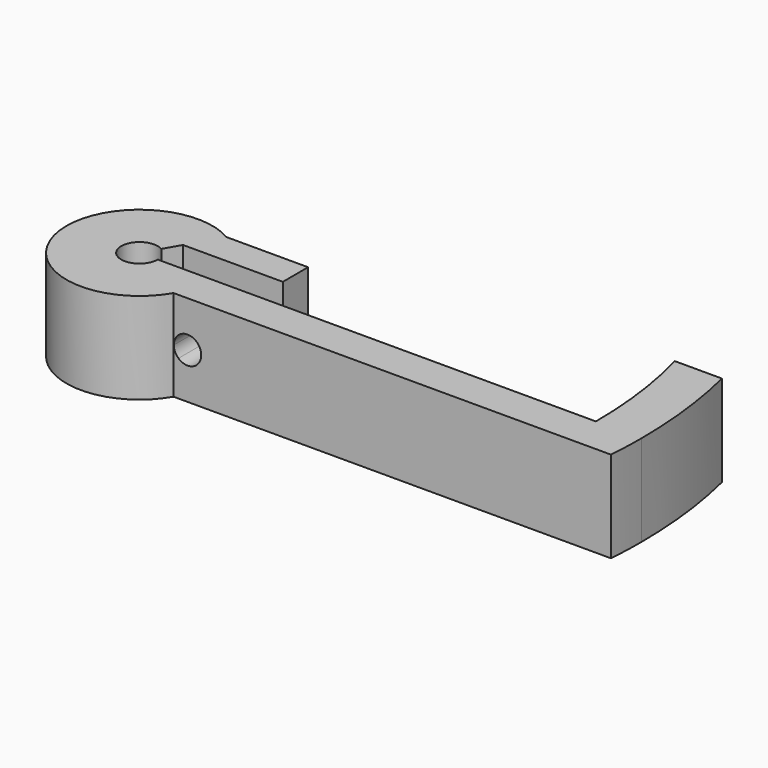
from build123d import *

# Parameters (mm, degrees)
F1_DEPTH = 10
F3_DEPTH = 25


with BuildPart() as f1:
    # F0 (on Top) → F1 (new body)
    with BuildSketch(Plane.XY):
        with BuildLine():
            Line((8, 0), (2, 0))
            ThreePointArc((2, 0), (-1.7320508076, -1), (1, 1.7320508076))
            Line((1, 1.7320508076), (2, 3.4641016151))
            Line((2, 3.4641016151), (4, 6.9282032303))
            ThreePointArc((4, 6.9282032303), (-7.7274066103, -2.0705523608), (6.9282032303, -4))
            ThreePointArc((6.9282032303, -4), (7.7274066103, -2.0705523608), (8, 0))
        make_face()
        with BuildLine():
            Line((50, 0), (8, 0))
            ThreePointArc((8, 0), (7.7274066103, -2.0705523608), (6.9282032303, -4))
            Line((6.9282032303, -4), (49.8397431775, -4))
            ThreePointArc((49.8397431775, -4), (49.9599197301, -2.001604497), (50, 0))
        make_face()
        with BuildLine():
            Line((55, 0), (50, 0))
            ThreePointArc((50, 0), (49.9599197301, -2.001604497), (49.8397431775, -4))
            Line((49.8397431775, -4), (54.8543526076, -4))
            ThreePointArc((54.8543526076, -4), (54.963576091, -2.0013253835), (55, 0))
        make_face()
        with BuildLine():
            ThreePointArc((4, 6.9282032303), (5.8670439833, 5.4385471312), (7.2111025509, 3.4641016151))
            Line((7.2111025509, 3.4641016151), (12.9282032303, 3.4641016151))
            Line((12.9282032303, 3.4641016151), (12.9282032303, 6.9282032303))
            Line((12.9282032303, 6.9282032303), (4, 6.9282032303))
        make_face()
        with BuildLine():
            Line((4, 6.9282032303), (2, 3.4641016151))
            Line((2, 3.4641016151), (7.2111025509, 3.4641016151))
            ThreePointArc((7.2111025509, 3.4641016151), (5.8670439833, 5.4385471312), (4, 6.9282032303))
        make_face()
        with BuildLine():
            ThreePointArc((48.2962913145, 12.9409522551), (49.5722430687, 6.526309611), (50, 0))
            Line((50, 0), (55, 0))
            ThreePointArc((55, 0), (54.6126072141, 6.5163742434), (53.4558860625, 12.9409522551))
            Line((53.4558860625, 12.9409522551), (48.2962913145, 12.9409522551))
        make_face()
    extrude(amount=F1_DEPTH)

    # F2 (on face) → F3 (cut)
    with BuildSketch(Plane(origin=(0, 6.9282032303, 0), x_dir=(-1, 0, 0), z_dir=(0, 1, 0))):
        with BuildLine():
            Line((-7.4651008853, 6.11892696), (-8.4641016151, 5))
            Line((-8.4641016151, 5), (-7.4651008853, 3.88107304))
            ThreePointArc((-7.4651008853, 3.88107304), (-7.0950689101, 4.3870159442), (-6.9641016151, 5))
            ThreePointArc((-6.9641016151, 5), (-7.0950689101, 5.6129840558), (-7.4651008853, 6.11892696))
        make_face()
        with BuildLine():
            Line((-7.4651008853, 3.88107304), (-8.4641016151, 5))
            Line((-8.4641016151, 5), (-9.463102345, 3.88107304))
            ThreePointArc((-9.463102345, 3.88107304), (-8.4641016151, 3.5), (-7.4651008853, 3.88107304))
        make_face()
        with BuildLine():
            Line((-8.4641016151, 5), (-9.463102345, 6.11892696))
            ThreePointArc((-9.463102345, 6.11892696), (-9.9641016151, 5), (-9.463102345, 3.88107304))
            Line((-9.463102345, 3.88107304), (-8.4641016151, 5))
        make_face()
        with BuildLine():
            ThreePointArc((-7.4651008853, 6.11892696), (-8.4641016151, 6.5), (-9.463102345, 6.11892696))
            Line((-9.463102345, 6.11892696), (-8.4641016151, 5))
            Line((-8.4641016151, 5), (-7.4651008853, 6.11892696))
        make_face()
    extrude(amount=-F3_DEPTH, mode=Mode.SUBTRACT)


solid = f1.part
